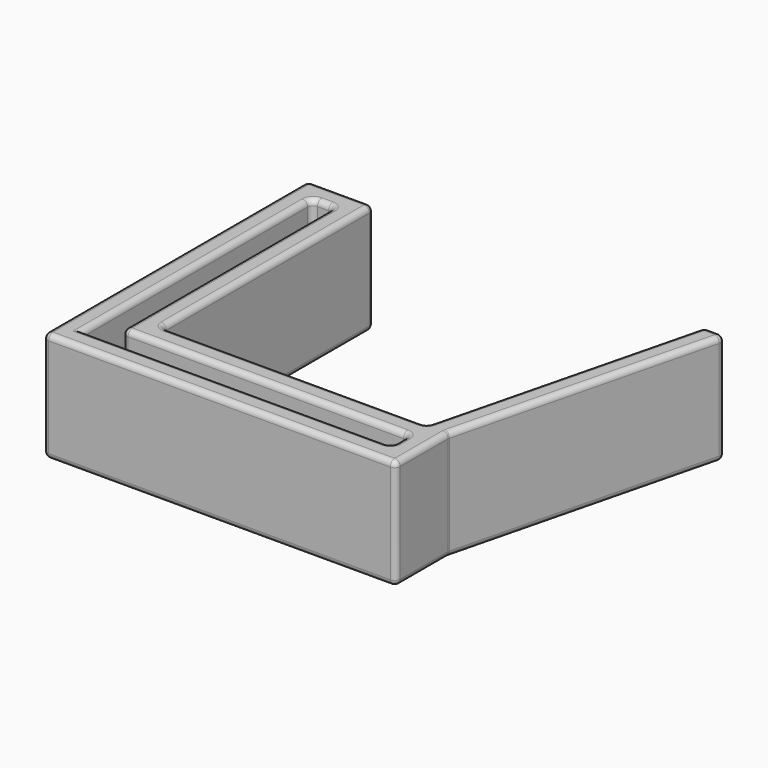
from build123d import *

# Parameters (mm, degrees)
F1_DEPTH = 10
F2_R     = 0.5


with BuildPart() as f1:
    # F0 (on Top) → F1 (new body)
    with BuildSketch(Plane.XY):
        Polygon((26, 2), (2, 2), (2, 26), (-4, 26), (-4, -4), (28, -4), (28, 2), (34, 26), (32, 26), align=None)
        Polygon((0, 24), (0, 0), (26, 0), (26, -2), (-2, -2), (-2, 24), align=None, mode=Mode.SUBTRACT)
    extrude(amount=F1_DEPTH)

    # F2
    f2_edges = [f1.edges().sort_by_distance(p)[0] for p in [
        (14, 2, 10),
        (2, 14, 10),
        (-1, 26, 10),
        (-4, 11, 10),
        (12, -4, 10),
        (28, -1, 10),
        (31, 14, 10),
        (33, 26, 10),
        (29, 14, 10),
        (0, 12, 10),
        (13, 0, 10),
        (26, -1, 10),
        (12, -2, 10),
        (-2, 11, 10),
        (-1, 24, 10),
        (14, 2, 0),
        (2, 14, 0),
        (-1, 26, 0),
        (-4, 11, 0),
        (12, -4, 0),
        (28, -1, 0),
        (31, 14, 0),
        (33, 26, 0),
        (29, 14, 0),
        (0, 12, 0),
        (13, 0, 0),
        (26, -1, 0),
        (12, -2, 0),
        (-2, 11, 0),
        (-1, 24, 0),
        (26, 2, 5),
        (2, 2, 5),
        (2, 26, 5),
        (-4, 26, 5),
        (32, 26, 5),
        (34, 26, 5),
        (-4, -4, 5),
        (28, -4, 5),
        (28, 2, 5),
        (0, 24, 5),
        (0, 0, 5),
        (26, 0, 5),
        (26, -2, 5),
        (-2, 24, 5),
    ]]
    fillet(f2_edges, radius=F2_R)


solid = f1.part
